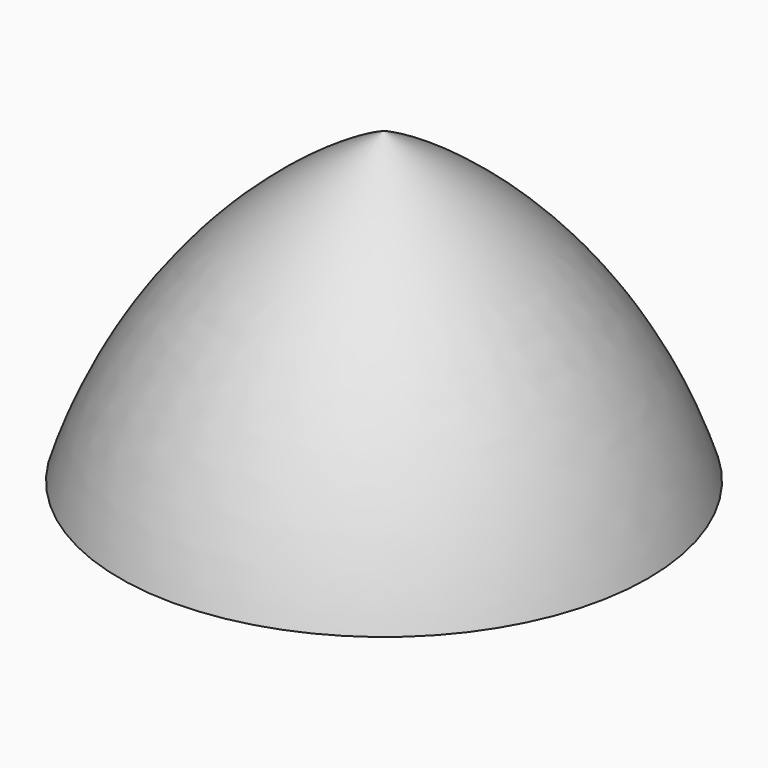
from build123d import *


with BuildPart() as f1:
    # F0 (on Right) → F1 (revolve)
    with BuildSketch(Plane.YZ):
        with BuildLine():
            ThreePointArc((38.100042, 11.310363), (23.56066, 37.401608), (4.2e-05, 55.760363))
            Line((4.2e-05, 55.760363), (4.2e-05, 11.310363))
            Line((4.2e-05, 11.310363), (38.100042, 11.310363))
        make_face()
    revolve(axis=Axis((0, 4.2e-05, 33.535363), (0, 0, -1)))


solid = f1.part
